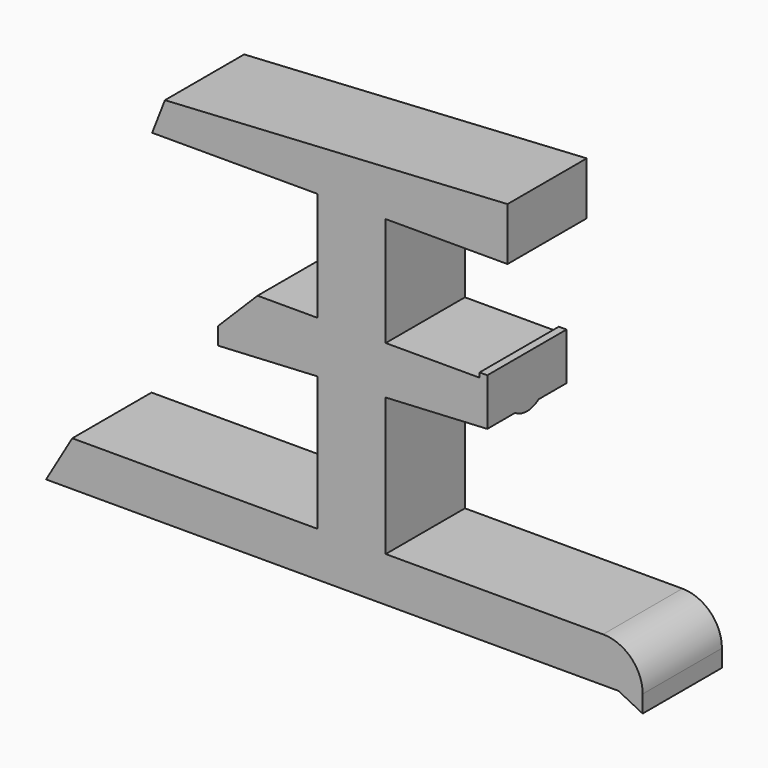
from build123d import *

# Parameters (mm, degrees)
F0_W     = 8.7596660014
F0_H     = 13.9908213168
F0_W_2   = 0.9912690148
F0_H_2   = 0.5951654166
F1_DEPTH = 6.35
F2_R     = 5.08
F4_SIZE  = 5.08


with BuildPart() as f1:
    # F0 (on Front) → F1 (new body, symmetric)
    with BuildSketch(Plane.XZ):
        Polygon((18.4732656926, 41.3089023039), (-25.4520159215, 38.7587957084), (-27.0884726197, 34.5398373902), (-25.4520159215, 34.5398373902), (-5.9040691704, 34.5398373902), (2.8555968311, 34.5398373902), (18.4732656926, 34.5398373902), align=None)
        with Locations((-1.5242361696, 27.5444267318)):
            Rectangle(F0_W, F0_H)
        Polygon((14.8897180334, 20.5490160733), (2.8555968311, 20.5490160733), (2.8555968311, 17.8197465704), (15.8809870481, 17.8197465704), (15.8809870481, 20.5490160733), align=None)
        Polygon((2.8555968311, 17.8197465704), (2.8555968311, 20.5490160733), (-5.9040691704, 20.5490160733), (-5.9040691704, 13.9371497284), (2.8555968311, 14.4008970871), align=None)
        Polygon((-5.9040691704, 13.9371497284), (-5.9040691704, 20.5490160733), (-18.6544265598, 20.5490160733), (-18.6544265598, 13.2621303201), align=None)
        Polygon((15.8809870481, 17.8197465704), (2.8555968311, 17.8197465704), (2.8555968311, 14.4008970871), (15.8809870481, 15.0904770675), align=None)
        with Locations((15.3853525408, 20.8465987816)):
            Rectangle(F0_W_2, F0_H_2)
        Polygon((2.8555968311, 14.4008970871), (-5.9040691704, 13.9371497284), (-5.9040691704, -3.2693331596), (-37.3304970562, -3.2693331596), (-40.6903134995, -9.0090157464), (32.6927527785, -9.0090157464), (35.8047001064, -10.5649875477), (35.8047001064, -3.2693331596), (2.8555968311, -3.2693331596), align=None)
    extrude(amount=F1_DEPTH, both=True)

    # F2
    f2_edges = [f1.edges().sort_by_distance(p)[0] for p in [
        (35.8047, 0, -3.269333),
    ]]
    fillet(f2_edges, radius=F2_R)

    # F0 (on Front) → F3 (revolve)
    with BuildSketch(Plane.XZ):
        with Locations((15.3853525408, 20.8465987816)):
            Rectangle(F0_W_2, F0_H_2)
    revolve(axis=Axis((9.3682919396, 0, 17.8197465704), (-1, 0, 0)))

    # F4
    f4_edges = [f1.edges().sort_by_distance(p)[0] for p in [
        (-18.654427, 0, 20.549016),
    ]]
    chamfer(f4_edges, length=F4_SIZE)


solid = f1.part
